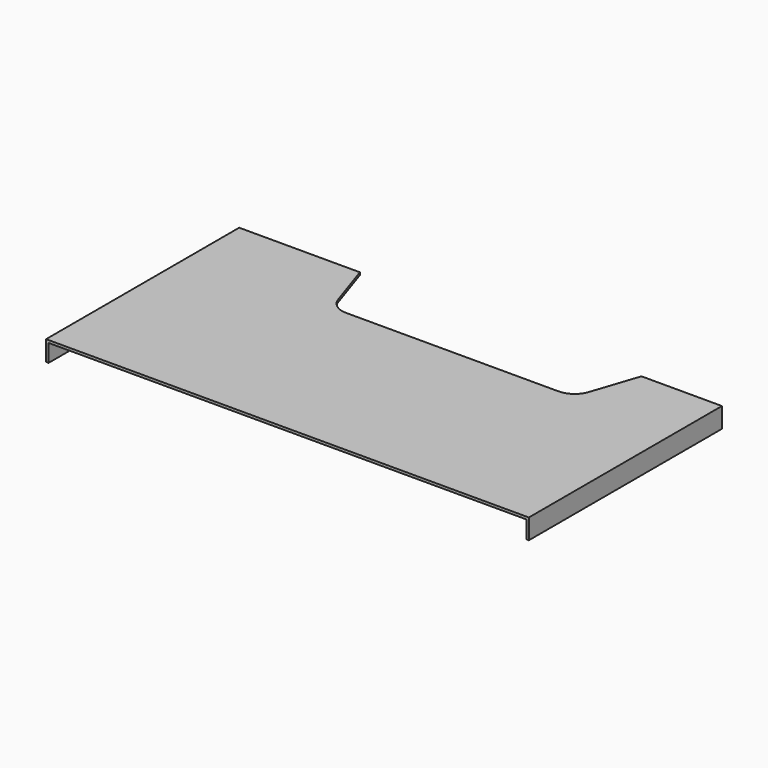
from build123d import *

# Parameters (mm, degrees)
F1_DEPTH = 3.175
F2_W     = 3.175
F2_H     = 304.8
F3_DEPTH = 22.225
F4_W     = 171.45
F4_H     = 3.175
F6_DEPTH = 12.7
F5_W     = 171.45
F5_H     = 3.175
F7_DEPTH = 12.7
F8_W     = 603.25
F8_H     = 3.175
F9_DEPTH = 22.225


with BuildPart() as f1:
    # F0 (on Top) → F1 (new body)
    with BuildSketch(Plane.XY):
        with BuildLine():
            Line((0, 304.8), (0, 0))
            Line((0, 0), (609.6, 0))
            Line((609.6, 0), (609.6, 304.8))
            Line((609.6, 304.8), (508, 304.8))
            Line((508, 304.8), (488.389272, 245.967815))
            ThreePointArc((488.389272, 245.967815), (479.144357, 233.394448), (464.292716, 228.6))
            Line((464.292716, 228.6), (196.107284, 228.6))
            ThreePointArc((196.107284, 228.6), (181.255643, 233.394448), (172.010728, 245.967815))
            Line((172.010728, 245.967815), (152.4, 304.8))
            Line((152.4, 304.8), (0, 304.8))
        make_face()
    extrude(amount=F1_DEPTH)

    # F2 (on face) → F3 (join)
    with BuildSketch(Plane.XY):
        with Locations((1.5875, 152.4)):
            Rectangle(F2_W, F2_H)
        with Locations((608.0125, 152.4)):
            Rectangle(F2_W, F2_H)
    extrude(amount=-F3_DEPTH)

    # F4 (on face) → F6 (join)
    with BuildSketch(Plane(origin=(606.425, 0, 0), x_dir=(0, -1, 0), z_dir=(-1, 0, 0))):
        with Locations((-219.075, -20.6375)):
            Rectangle(F4_W, F4_H)
    extrude(amount=F6_DEPTH)

    # F5 (on face) → F7 (join)
    with BuildSketch(Plane.YZ.offset(3.175)):
        with Locations((219.075, -20.6375)):
            Rectangle(F5_W, F5_H)
    extrude(amount=F7_DEPTH)

    # F8 (on face) → F9 (join, through all)
    with BuildSketch(Plane(origin=(0, 0, 0), x_dir=(1, 0, 0), z_dir=(0, 0, -1))):
        with Locations((304.8, -131.7625)):
            Rectangle(F8_W, F8_H)
    extrude(amount=F9_DEPTH)


solid = f1.part
